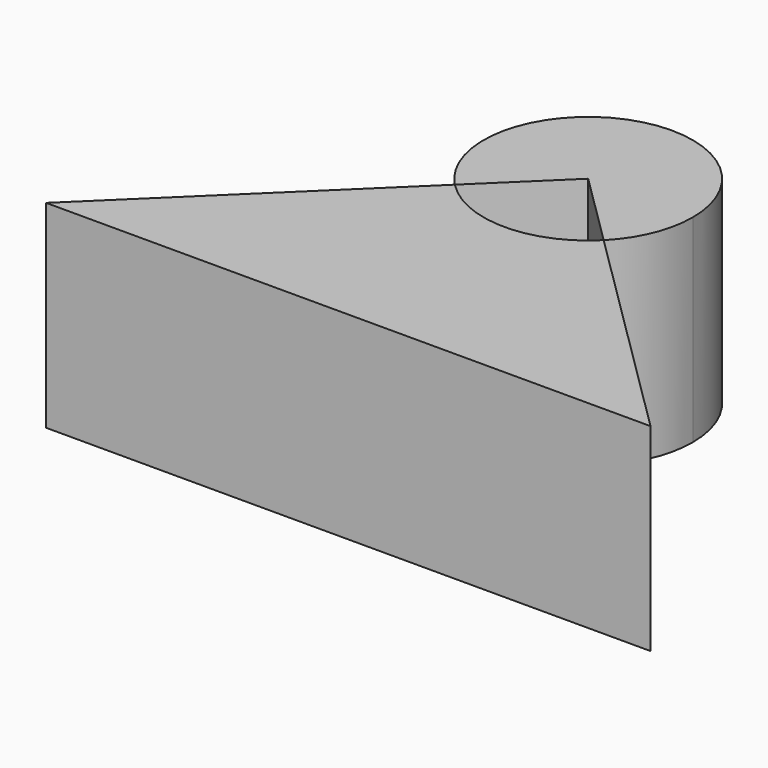
from build123d import *

# Parameters (mm, degrees)
F1_DEPTH = 49


with BuildPart() as f1:
    # F0 (on Top) → F1 (new body)
    with BuildSketch(Plane.XY):
        with BuildLine():
            ThreePointArc((18.397073, -18.208922), (-0.121043, -25.884406), (-18.566565, -18.03607))
            Line((-18.566565, -18.03607), (-75.483851, -73.327079))
            Line((-75.483851, -73.327079), (74.084759, -73.327079))
            Line((74.084759, -73.327079), (18.397073, -18.208922))
        make_face()
        with BuildLine():
            Line((-18.566565, -18.03607), (0, 0))
            Line((0, 0), (18.397073, -18.208922))
            ThreePointArc((18.397073, -18.208922), (23.939712, -9.844151), (25.884689, 0))
            ThreePointArc((25.884689, 0), (-9.732096, 23.985484), (-18.566565, -18.03607))
        make_face()
    extrude(amount=-F1_DEPTH)


solid = f1.part
